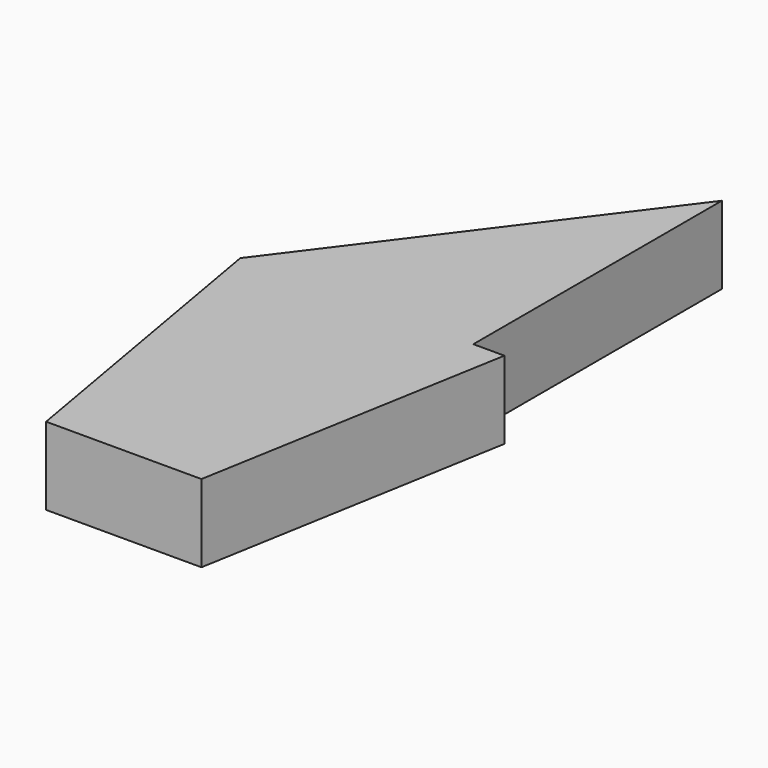
from build123d import *

# Parameters (mm, degrees)
F1_DEPTH = 10


with BuildPart() as f1:
    # F0 (on Top) → F1 (new body)
    with BuildSketch(Plane.XY):
        Polygon((-24.450092, 18.142014), (-54.450092, 18.142014), (-47.450092, -21.857986), (-27.450092, -21.857986), (-20.450092, 18.142014), align=None)
        Polygon((-24.450092, 58.142014), (-54.450092, 18.142014), (-24.450092, 18.142014), align=None)
    extrude(amount=F1_DEPTH)


solid = f1.part
